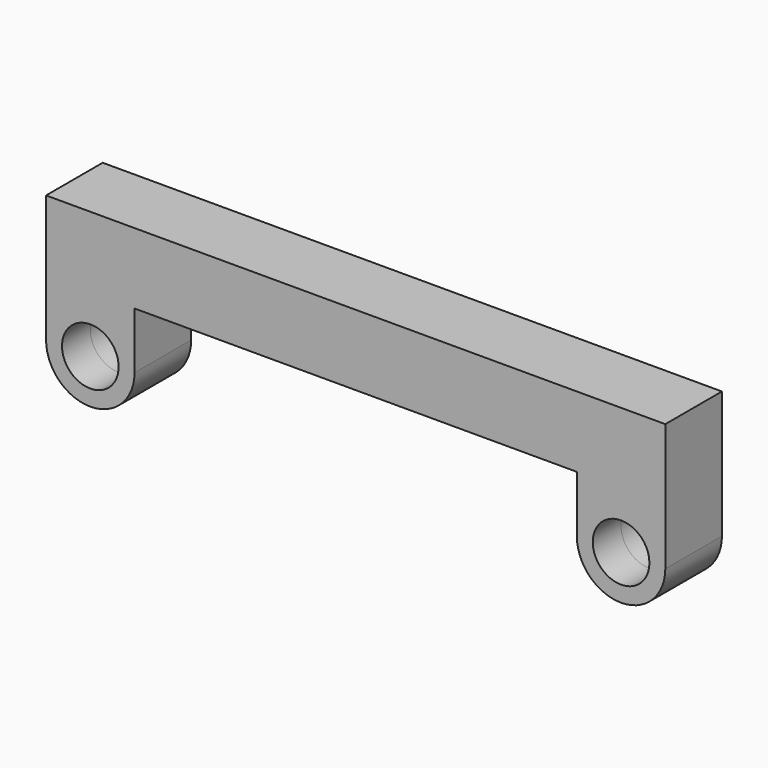
from build123d import *

# Parameters (mm, degrees)
F1_DEPTH      = 10
F1_DEPTH_BACK = 10
F2_R          = 8
F3_DEPTH      = 10
F3_DEPTH_BACK = 10


with BuildPart() as f1:
    # F0 (on Front) → F1 (new body, two sides)
    with BuildSketch(Plane.XZ) as f1_sk:
        with BuildLine():
            Line((50, 36), (-125, 36))
            Line((-125, 36), (-125, 0))
            ThreePointArc((-125, 0), (-112.5, -12.5), (-100, 0))
            Line((-100, 0), (-100, 16))
            Line((-100, 16), (25, 16))
            Line((25, 16), (25, 0))
            ThreePointArc((25, 0), (37.5, -12.5), (50, 0))
            Line((50, 0), (50, 36))
        make_face()
    extrude(amount=F1_DEPTH)
    extrude(f1_sk.sketch, amount=-F1_DEPTH_BACK)

    # F2 (on Front) → F3 (cut, two sides)
    with BuildSketch(Plane.XZ) as f3_sk:
        with Locations((-112.5, 0)):
            Circle(F2_R)
        with Locations((37.5, 0)):
            Circle(F2_R)
    extrude(amount=F3_DEPTH, mode=Mode.SUBTRACT)
    extrude(f3_sk.sketch, amount=-F3_DEPTH_BACK, mode=Mode.SUBTRACT)


solid = f1.part
